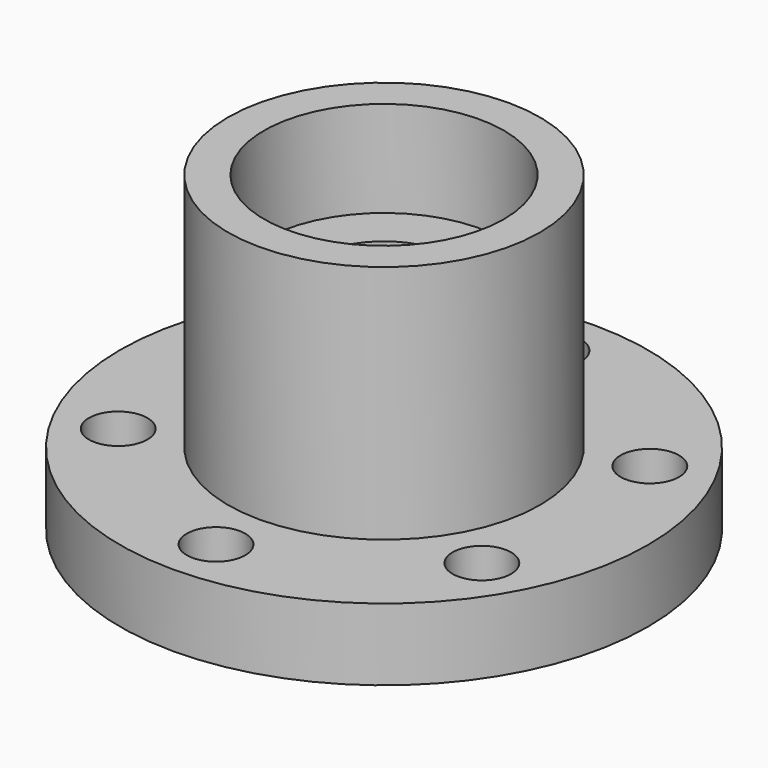
from build123d import *

# Parameters (mm, degrees)
F0_R      = 11
F1_DEPTH  = 3
F3_D      = 2.4384
F4_R      = 6.5
F4_R_2    = 4
F5_DEPTH  = 10
F6_R      = 3
F7_DEPTH  = 13.001
F8_R      = 5
F8_R_2    = 3
F9_DEPTH  = 4
F10_R     = 6.4
F11_DEPTH = 1
F12_R     = 4
F13_DEPTH = 4


with BuildPart() as f1:
    # F0 (on Top) → F1 (new body)
    with BuildSketch(Plane.XY):
        Circle(F0_R)
        Polygon((7.5777222831, 4.375), (7.5777222831, -4.375), (0, -8.75), (-7.5777222831, -4.375), (-7.5777222831, 4.375), (0, 8.75), align=None, mode=Mode.SUBTRACT)
        Polygon((0, -8.75), (7.5777222831, -4.375), (7.5777222831, 4.375), (0, 8.75), (-7.5777222831, 4.375), (-7.5777222831, -4.375), align=None)
    extrude(amount=F1_DEPTH)

    # F3 (through all)
    with Locations(Plane.XY.offset(3)):
        with Locations((0, 8.75), (7.5777222831, 4.375), (7.5777222831, -4.375), (0, -8.75), (-7.5777222831, -4.375), (-7.5777222831, 4.375)):
            Hole(F3_D / 2)

    # F4 (on face) → F5 (join)
    with BuildSketch(Plane.XY.offset(3)):
        Circle(F4_R)
        Circle(F4_R_2, mode=Mode.SUBTRACT)
        Circle(F4_R_2)
    extrude(amount=F5_DEPTH)

    # F6 (on face) → F7 (cut, through all)
    with BuildSketch(Plane(origin=(0, 0, 0), x_dir=(1, 0, 0), z_dir=(0, 0, -1))):
        Circle(F6_R)
    extrude(amount=-F7_DEPTH, mode=Mode.SUBTRACT)

    # F8 (on face) → F9 (cut)
    with BuildSketch(Plane.XY.offset(13)):
        Circle(F8_R)
        Circle(F8_R_2, mode=Mode.SUBTRACT)
    extrude(amount=-F9_DEPTH, mode=Mode.SUBTRACT)

    # F10 (on Top) → F11 (join)
    with BuildSketch(Plane.XY):
        Circle(F10_R)
    extrude(amount=-F11_DEPTH)

    # F12 (on face) → F13 (cut)
    with BuildSketch(Plane(origin=(0, 0, -1), x_dir=(1, 0, 0), z_dir=(0, 0, -1))):
        Circle(F12_R)
    extrude(amount=-F13_DEPTH, mode=Mode.SUBTRACT)


solid = f1.part
